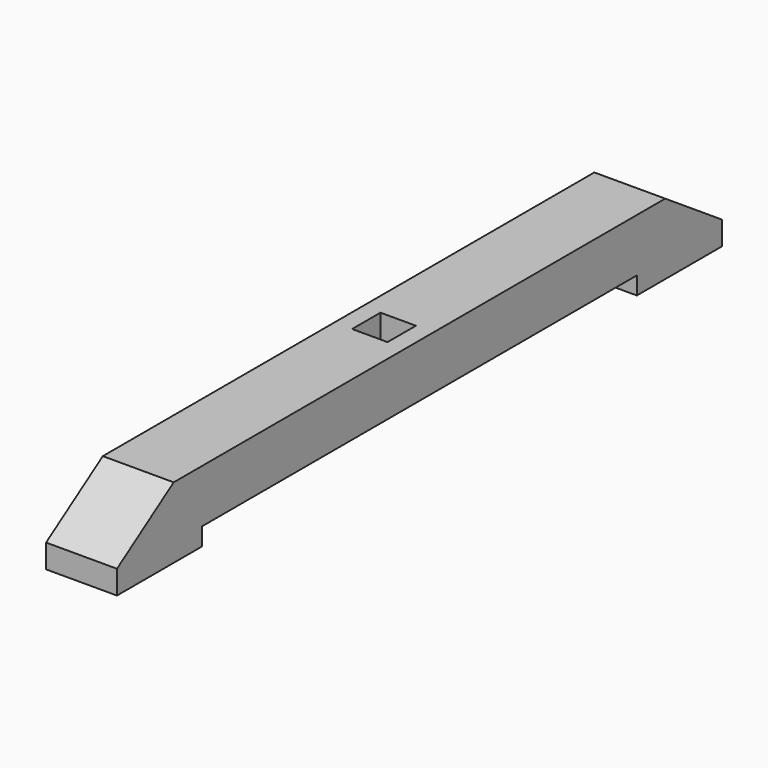
from build123d import *

# Parameters (mm, degrees)
F1_DEPTH = 76.2
F2_W     = 38.1
F2_H     = 19.05
F3_DEPTH = 38.1


with BuildPart() as f1:
    # F0 (on Right) → F1 (new body)
    with BuildSketch(Plane.YZ):
        Polygon((406.4, -12.7), (330.2, 38.1), (-330.2, 38.1), (-406.4, -12.7), (-406.4, -38.1), (-292.1, -38.1), (-292.1, -19.05), (292.1, -19.05), (292.1, -38.1), (406.4, -38.1), align=None)
    extrude(amount=F1_DEPTH)

    # F2 (on face) → F3 (cut)
    with BuildSketch(Plane.XY.offset(38.1)):
        with Locations((38.1, 9.525)):
            Rectangle(F2_W, F2_H)
        with Locations((38.1, -9.525)):
            Rectangle(F2_W, F2_H)
    extrude(amount=-F3_DEPTH, mode=Mode.SUBTRACT)


solid = f1.part
